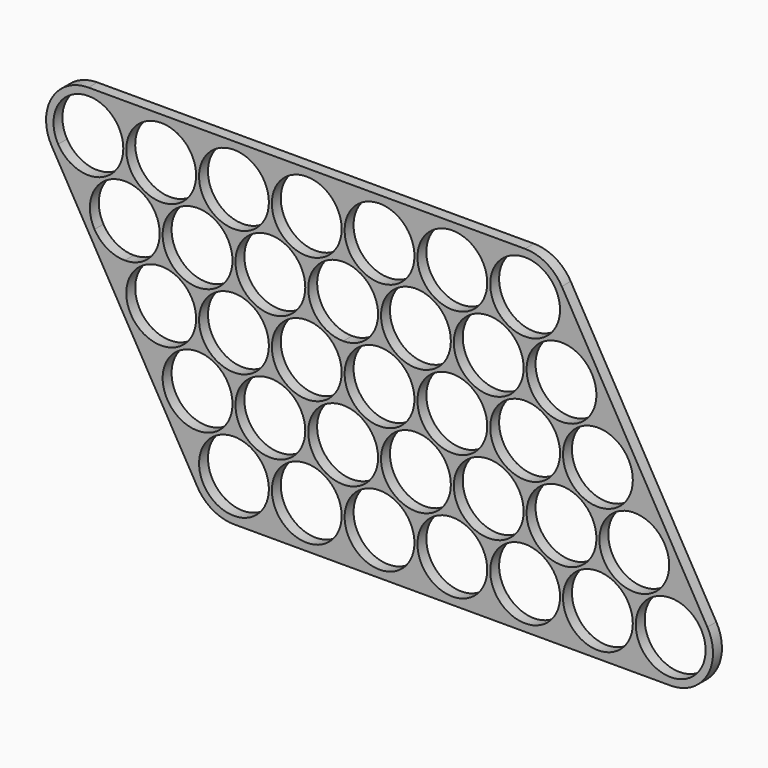
from build123d import *

# Parameters (mm, degrees)
F0_R     = 9.4
F1_DEPTH = 3


with BuildPart() as f1:
    # F0 (on Front) → F1 (new body)
    with BuildSketch(Plane.XZ):
        with BuildLine():
            Line((58.8, 11.4), (0, 11.4))
            ThreePointArc((0, 11.4), (-9.870808, 5.703258), (-9.87645, -5.693483))
            Line((-9.87645, -5.693483), (-0.07645, -22.693483))
            Line((-0.07645, -22.693483), (19.523115, -56.692727))
            Line((19.523115, -56.692727), (29.322897, -73.692349))
            ThreePointArc((29.322897, -73.692349), (33.496089, -77.869674), (39.199347, -79.398866))
            Line((39.199347, -79.398866), (156.799347, -79.398866))
            ThreePointArc((156.799347, -79.398866), (166.670155, -73.702124), (166.675796, -62.305384))
            Line((166.675796, -62.305384), (127.47645, 5.693483))
            ThreePointArc((127.47645, 5.693483), (123.303258, 9.870808), (117.6, 11.4))
            Line((117.6, 11.4), (98, 11.4))
            Line((98, 11.4), (58.8, 11.4))
        make_face()
        with Locations((39.199347, -67.998866)):
            Circle(F0_R, mode=Mode.SUBTRACT)
        with Locations((58.799347, -67.998866)):
            Circle(F0_R, mode=Mode.SUBTRACT)
        with Locations((78.399347, -67.998866)):
            Circle(F0_R, mode=Mode.SUBTRACT)
        with Locations((29.399564, -50.999244)):
            Circle(F0_R, mode=Mode.SUBTRACT)
        with Locations((19.599782, -33.999622)):
            Circle(F0_R, mode=Mode.SUBTRACT)
        with Locations((48.999564, -50.999244)):
            Circle(F0_R, mode=Mode.SUBTRACT)
        with Locations((68.599564, -50.999244)):
            Circle(F0_R, mode=Mode.SUBTRACT)
        with Locations((39.199782, -33.999622)):
            Circle(F0_R, mode=Mode.SUBTRACT)
        with Locations((58.799782, -33.999622)):
            Circle(F0_R, mode=Mode.SUBTRACT)
        with Locations((97.999347, -67.998866)):
            Circle(F0_R, mode=Mode.SUBTRACT)
        with Locations((117.599347, -67.998866)):
            Circle(F0_R, mode=Mode.SUBTRACT)
        with Locations((137.199347, -67.998866)):
            Circle(F0_R, mode=Mode.SUBTRACT)
        with Locations((156.799347, -67.998866)):
            Circle(F0_R, mode=Mode.SUBTRACT)
        with Locations((88.199564, -50.999244)):
            Circle(F0_R, mode=Mode.SUBTRACT)
        with Locations((107.799564, -50.999244)):
            Circle(F0_R, mode=Mode.SUBTRACT)
        with Locations((78.399782, -33.999622)):
            Circle(F0_R, mode=Mode.SUBTRACT)
        with Locations((97.999782, -33.999622)):
            Circle(F0_R, mode=Mode.SUBTRACT)
        with Locations((117.599782, -33.999622)):
            Circle(F0_R, mode=Mode.SUBTRACT)
        with Locations((127.399564, -50.999244)):
            Circle(F0_R, mode=Mode.SUBTRACT)
        with Locations((146.999564, -50.999244)):
            Circle(F0_R, mode=Mode.SUBTRACT)
        with Locations((137.199782, -33.999622)):
            Circle(F0_R, mode=Mode.SUBTRACT)
        with BuildLine():
            ThreePointArc((9.8, -26.4), (5.097314, -25.139087), (1.656261, -21.694626))
            ThreePointArc((1.656261, -21.694626), (7.370097, -7.919495), (19.2, -17))
            ThreePointArc((19.2, -17), (16.446804, -23.646804), (9.8, -26.4))
        make_face(mode=Mode.SUBTRACT)
        with Locations((29.4, -17)):
            Circle(F0_R, mode=Mode.SUBTRACT)
        with Locations((49, -17)):
            Circle(F0_R, mode=Mode.SUBTRACT)
        with BuildLine():
            ThreePointArc((76.743739, -12.305374), (77.680505, -14.570097), (78, -17))
            ThreePointArc((78, -17), (75.246804, -23.646804), (68.6, -26.4))
            ThreePointArc((68.6, -26.4), (60.460913, -12.297314), (76.743739, -12.305374))
        make_face(mode=Mode.SUBTRACT)
        with BuildLine():
            ThreePointArc((0, 9.4), (6.646804, 6.646804), (9.4, 0))
            ThreePointArc((9.4, 0), (2.429903, -9.080505), (-8.143739, -4.694626))
            ThreePointArc((-8.143739, -4.694626), (-8.139087, 4.702686), (0, 9.4))
        make_face(mode=Mode.SUBTRACT)
        with BuildLine():
            ThreePointArc((29, 0), (12.953196, -6.646804), (19.6, 9.4))
            ThreePointArc((19.6, 9.4), (26.246804, 6.646804), (29, 0))
        make_face(mode=Mode.SUBTRACT)
        with BuildLine():
            ThreePointArc((48.6, 0), (32.553196, -6.646804), (39.2, 9.4))
            ThreePointArc((39.2, 9.4), (45.846804, 6.646804), (48.6, 0))
        make_face(mode=Mode.SUBTRACT)
        with BuildLine():
            ThreePointArc((68.2, 0), (52.153196, -6.646804), (58.8, 9.4))
            ThreePointArc((58.8, 9.4), (63.502686, 8.139087), (66.943739, 4.694626))
            ThreePointArc((66.943739, 4.694626), (67.880505, 2.429903), (68.2, 0))
        make_face(mode=Mode.SUBTRACT)
        with Locations((88.2, -17)):
            Circle(F0_R, mode=Mode.SUBTRACT)
        with Locations((107.8, -17)):
            Circle(F0_R, mode=Mode.SUBTRACT)
        with Locations((127.4, -17)):
            Circle(F0_R, mode=Mode.SUBTRACT)
        with Locations((78.4, 0)):
            Circle(F0_R, mode=Mode.SUBTRACT)
        with Locations((98, 0)):
            Circle(F0_R, mode=Mode.SUBTRACT)
        with Locations((117.6, 0)):
            Circle(F0_R, mode=Mode.SUBTRACT)
        with BuildLine():
            Line((58.8, 11.4), (0, 11.4))
            ThreePointArc((0, 11.4), (-9.870808, 5.703258), (-9.87645, -5.693483))
            Line((-9.87645, -5.693483), (-0.07645, -22.693483))
            Line((-0.07645, -22.693483), (19.523115, -56.692727))
            Line((19.523115, -56.692727), (29.322897, -73.692349))
            ThreePointArc((29.322897, -73.692349), (33.496089, -77.869674), (39.199347, -79.398866))
            Line((39.199347, -79.398866), (156.799347, -79.398866))
            ThreePointArc((156.799347, -79.398866), (166.670155, -73.702124), (166.675796, -62.305384))
            Line((166.675796, -62.305384), (127.47645, 5.693483))
            ThreePointArc((127.47645, 5.693483), (123.303258, 9.870808), (117.6, 11.4))
            Line((117.6, 11.4), (98, 11.4))
            Line((98, 11.4), (58.8, 11.4))
        make_face()
        with Locations((39.199347, -67.998866)):
            Circle(F0_R, mode=Mode.SUBTRACT)
        with Locations((58.799347, -67.998866)):
            Circle(F0_R, mode=Mode.SUBTRACT)
        with Locations((78.399347, -67.998866)):
            Circle(F0_R, mode=Mode.SUBTRACT)
        with Locations((29.399564, -50.999244)):
            Circle(F0_R, mode=Mode.SUBTRACT)
        with Locations((19.599782, -33.999622)):
            Circle(F0_R, mode=Mode.SUBTRACT)
        with Locations((48.999564, -50.999244)):
            Circle(F0_R, mode=Mode.SUBTRACT)
        with Locations((68.599564, -50.999244)):
            Circle(F0_R, mode=Mode.SUBTRACT)
        with Locations((39.199782, -33.999622)):
            Circle(F0_R, mode=Mode.SUBTRACT)
        with Locations((58.799782, -33.999622)):
            Circle(F0_R, mode=Mode.SUBTRACT)
        with Locations((97.999347, -67.998866)):
            Circle(F0_R, mode=Mode.SUBTRACT)
        with Locations((117.599347, -67.998866)):
            Circle(F0_R, mode=Mode.SUBTRACT)
        with Locations((137.199347, -67.998866)):
            Circle(F0_R, mode=Mode.SUBTRACT)
        with Locations((156.799347, -67.998866)):
            Circle(F0_R, mode=Mode.SUBTRACT)
        with Locations((88.199564, -50.999244)):
            Circle(F0_R, mode=Mode.SUBTRACT)
        with Locations((107.799564, -50.999244)):
            Circle(F0_R, mode=Mode.SUBTRACT)
        with Locations((78.399782, -33.999622)):
            Circle(F0_R, mode=Mode.SUBTRACT)
        with Locations((97.999782, -33.999622)):
            Circle(F0_R, mode=Mode.SUBTRACT)
        with Locations((117.599782, -33.999622)):
            Circle(F0_R, mode=Mode.SUBTRACT)
        with Locations((127.399564, -50.999244)):
            Circle(F0_R, mode=Mode.SUBTRACT)
        with Locations((146.999564, -50.999244)):
            Circle(F0_R, mode=Mode.SUBTRACT)
        with Locations((137.199782, -33.999622)):
            Circle(F0_R, mode=Mode.SUBTRACT)
        with BuildLine():
            ThreePointArc((9.8, -26.4), (5.097314, -25.139087), (1.656261, -21.694626))
            ThreePointArc((1.656261, -21.694626), (7.370097, -7.919495), (19.2, -17))
            ThreePointArc((19.2, -17), (16.446804, -23.646804), (9.8, -26.4))
        make_face(mode=Mode.SUBTRACT)
        with Locations((29.4, -17)):
            Circle(F0_R, mode=Mode.SUBTRACT)
        with Locations((49, -17)):
            Circle(F0_R, mode=Mode.SUBTRACT)
        with BuildLine():
            ThreePointArc((76.743739, -12.305374), (77.680505, -14.570097), (78, -17))
            ThreePointArc((78, -17), (75.246804, -23.646804), (68.6, -26.4))
            ThreePointArc((68.6, -26.4), (60.460913, -12.297314), (76.743739, -12.305374))
        make_face(mode=Mode.SUBTRACT)
        with BuildLine():
            ThreePointArc((0, 9.4), (6.646804, 6.646804), (9.4, 0))
            ThreePointArc((9.4, 0), (2.429903, -9.080505), (-8.143739, -4.694626))
            ThreePointArc((-8.143739, -4.694626), (-8.139087, 4.702686), (0, 9.4))
        make_face(mode=Mode.SUBTRACT)
        with BuildLine():
            ThreePointArc((29, 0), (12.953196, -6.646804), (19.6, 9.4))
            ThreePointArc((19.6, 9.4), (26.246804, 6.646804), (29, 0))
        make_face(mode=Mode.SUBTRACT)
        with BuildLine():
            ThreePointArc((48.6, 0), (32.553196, -6.646804), (39.2, 9.4))
            ThreePointArc((39.2, 9.4), (45.846804, 6.646804), (48.6, 0))
        make_face(mode=Mode.SUBTRACT)
        with BuildLine():
            ThreePointArc((68.2, 0), (52.153196, -6.646804), (58.8, 9.4))
            ThreePointArc((58.8, 9.4), (63.502686, 8.139087), (66.943739, 4.694626))
            ThreePointArc((66.943739, 4.694626), (67.880505, 2.429903), (68.2, 0))
        make_face(mode=Mode.SUBTRACT)
        with Locations((88.2, -17)):
            Circle(F0_R, mode=Mode.SUBTRACT)
        with Locations((107.8, -17)):
            Circle(F0_R, mode=Mode.SUBTRACT)
        with Locations((127.4, -17)):
            Circle(F0_R, mode=Mode.SUBTRACT)
        with Locations((78.4, 0)):
            Circle(F0_R, mode=Mode.SUBTRACT)
        with Locations((98, 0)):
            Circle(F0_R, mode=Mode.SUBTRACT)
        with Locations((117.6, 0)):
            Circle(F0_R, mode=Mode.SUBTRACT)
    extrude(amount=F1_DEPTH)


solid = f1.part
